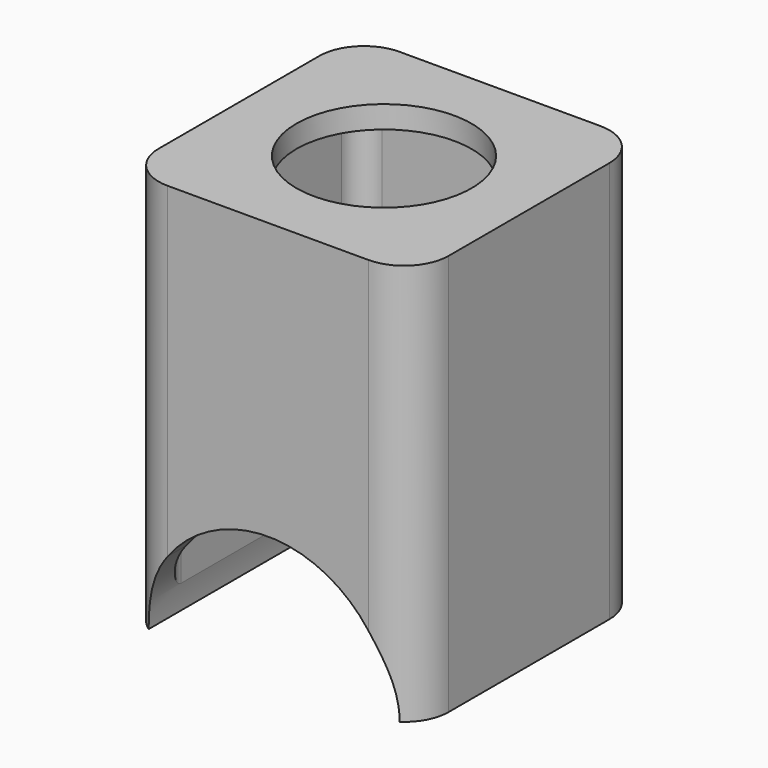
from build123d import *

# Parameters (mm, degrees)
F0_W     = 33.02
F0_H     = 33.02
F0_R     = 9.9695
F1_DEPTH = 45.72
F2_R     = 5.08
F3_T     = -2.54
F5_D     = 19.939
F7_DEPTH = 33.021


with BuildPart() as f1:
    # F0 (on Top) → F1 (new body)
    with BuildSketch(Plane.XY):
        Rectangle(F0_W, F0_H)
        Circle(F0_R, mode=Mode.SUBTRACT)
        Circle(F0_R)
    extrude(amount=F1_DEPTH)

    # F2
    f2_edges = [f1.edges().sort_by_distance(p)[0] for p in [
        (-16.51, -16.51, 22.86),
        (16.51, -16.51, 22.86),
        (16.51, 16.51, 22.86),
        (-16.51, 16.51, 22.86),
    ]]
    fillet(f2_edges, radius=F2_R)

    # F3
    f3_openings = [f1.faces().sort_by_distance(p)[0] for p in [
        (0, 0, 0),
    ]]
    offset(amount=F3_T, openings=f3_openings)

    # F5 (through all)
    with Locations(Plane.XY.offset(45.72)):
        with Locations((0, 0)):
            Hole(F5_D / 2)

    # F6 (on face) → F7 (cut, through all)
    with BuildSketch(Plane(origin=(0, 16.51, 0), x_dir=(-1, 0, 0), z_dir=(0, 1, 0))):
        with BuildLine():
            Line((11.43, 0), (14.2875, 0))
            ThreePointArc((14.2875, 0), (13.5543126209, 4.518104207), (11.43, 8.5725))
            Line((11.43, 8.5725), (11.43, 0))
        make_face()
        with BuildLine():
            Line((-11.43, 0), (-11.43, 8.5725))
            ThreePointArc((-11.43, 8.5725), (-13.5543126209, 4.518104207), (-14.2875, 0))
            Line((-14.2875, 0), (-11.43, 0))
        make_face()
        with BuildLine():
            Line((11.43, 0), (11.43, 8.5725))
            ThreePointArc((11.43, 8.5725), (0, 14.2875), (-11.43, 8.5725))
            Line((-11.43, 8.5725), (-11.43, 0))
            Line((-11.43, 0), (11.43, 0))
        make_face()
    extrude(amount=-F7_DEPTH, mode=Mode.SUBTRACT)


solid = f1.part
